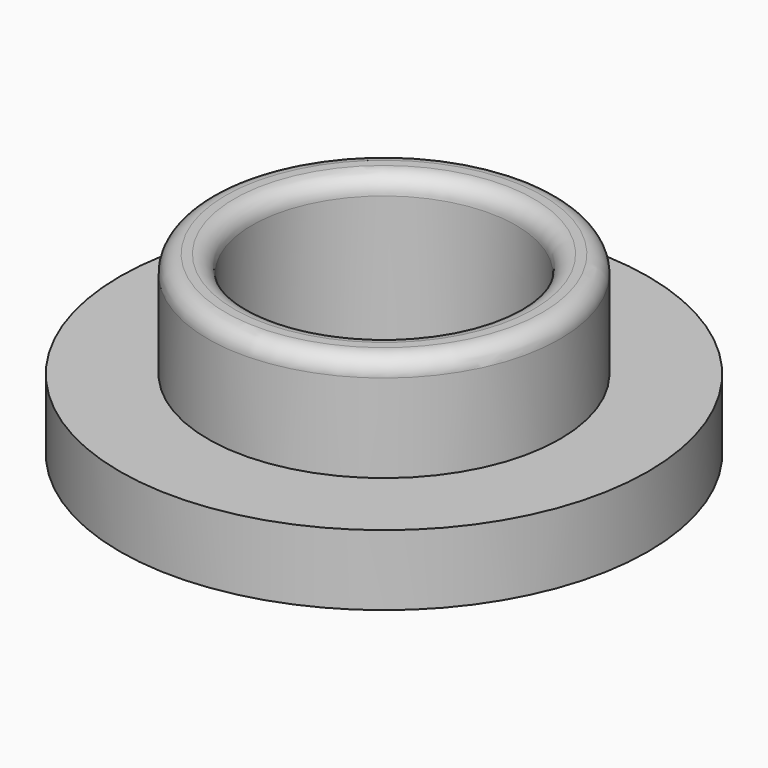
from build123d import *

# Parameters (mm, degrees)
F0_R     = 15
F0_R_2   = 10
F1_DEPTH = 4
F0_R_3   = 7.5
F2_DEPTH = 10
F3_R     = 1


with BuildPart() as f1:
    # F0 (on Top) → F1 (new body)
    with BuildSketch(Plane.XY):
        Circle(F0_R)
        Circle(F0_R_2, mode=Mode.SUBTRACT)
    extrude(amount=F1_DEPTH)

    # F0 (on Top) → F2 (join)
    with BuildSketch(Plane.XY):
        Circle(F0_R_2)
        Circle(F0_R_3, mode=Mode.SUBTRACT)
    extrude(amount=F2_DEPTH)

    # F3
    f3_edges = [f1.edges().sort_by_distance(p)[0] for p in [
        (-7.5, 0, 10),
        (-10, 0, 10),
    ]]
    fillet(f3_edges, radius=F3_R)


solid = f1.part
